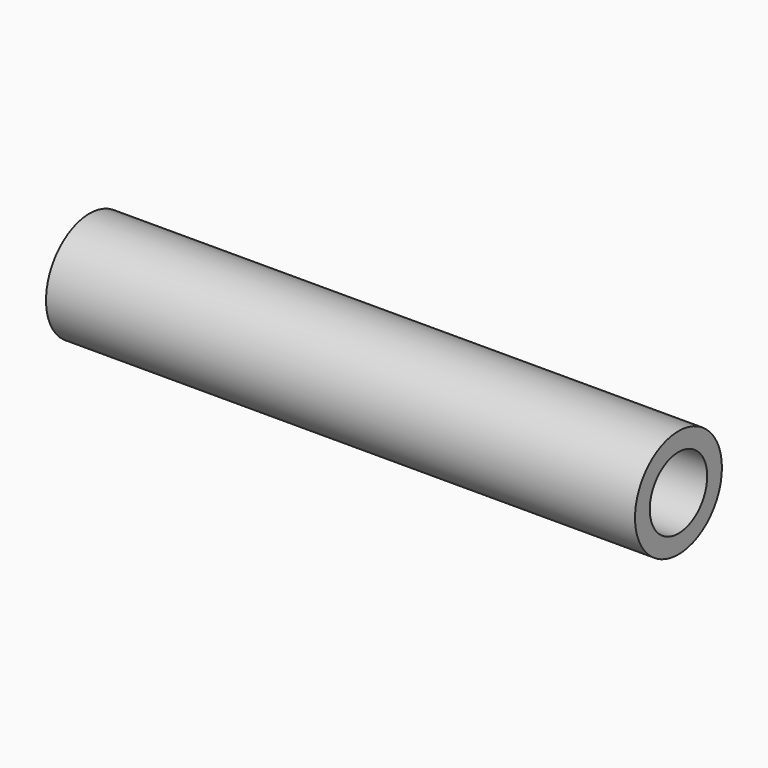
from build123d import *

# Parameters (mm, degrees)
PAD_DEPTH       = 0.245
POCKET_DEPTH    = 0.05
SKETCH004_R     = 0.75
PAD001_DEPTH    = 10.08525
SKETCH005_R     = 3
HOLE_DEPTH      = 26
SKETCH006_R     = 0.495763
POCKET001_DEPTH = 9.580987
SKETCH007_W     = 15
SKETCH007_H     = 15
POCKET002_DEPTH = 5


with BuildPart() as part:
    # Sketch → Pad (new body, symmetric)
    with BuildSketch(Plane.XY):
        with BuildLine():
            Line((0, 0.375), (19.21, 0.375))
            ThreePointArc((19.21, -0.375), (19.585, 0), (19.21, 0.375))
            Line((19.21, -0.375), (0, -0.375))
            ThreePointArc((0, 0.375), (-0.375, 0), (0, -0.375))
        make_face()
    extrude(amount=PAD_DEPTH, both=True)

    # Sketch001 → Revolution (revolve)
    with BuildSketch(Plane.XY):
        with BuildLine():
            Line((0, 0.625), (0, 0))
            Line((0, 0), (0, -0.625))
            ThreePointArc((0, 0.625), (-0.625, 0), (0, -0.625))
        make_face()
    revolve(axis=Axis((0, 0, 0), (0, -1, 0)))

    # Sketch002 → Revolution001 (revolve)
    with BuildSketch(Plane.XY):
        with BuildLine():
            ThreePointArc((19.21, -0.625), (19.835, 0), (19.21, 0.625))
            Line((19.21, 0.625), (19.21, 0))
            Line((19.21, 0), (19.21, -0.625))
        make_face()
    revolve(axis=Axis((19.21, 0, 0), (0, -1, 0)))

    # Sketch003 (on DatumPlane) → Pocket (cut)
    with BuildSketch(Plane.XY.offset(0.25)):
        Polygon((1.05425, -0.16238), (1.148, 0), (1.05425, 0.16238), (0.86675, 0.16238), (0.773, 0), (0.86675, -0.16238), align=None)
    extrude(amount=-POCKET_DEPTH, mode=Mode.SUBTRACT)

    # Sketch004 (on DatumPlane) → Pad001 (join)
    with BuildSketch(Plane.YZ.offset(11.526)):
        Circle(SKETCH004_R)
    extrude(amount=-PAD001_DEPTH)

    # Sketch005 (on DatumPlane) → Hole (cut)
    with BuildSketch(Plane.YZ.offset(11.526)):
        Circle(SKETCH005_R)
    extrude(amount=HOLE_DEPTH, mode=Mode.SUBTRACT)

    # Sketch006 (on DatumPlane) → Pocket001 (cut)
    with BuildSketch(Plane.YZ.offset(11.526)):
        Circle(SKETCH006_R)
    extrude(amount=-POCKET001_DEPTH, mode=Mode.SUBTRACT)

    # Sketch007 (on DatumPlane) → Pocket002 (cut)
    with BuildSketch(Plane.YZ.offset(3.3932)):
        Rectangle(SKETCH007_W, SKETCH007_H)
    extrude(amount=-POCKET002_DEPTH, mode=Mode.SUBTRACT)


solid = part.part
